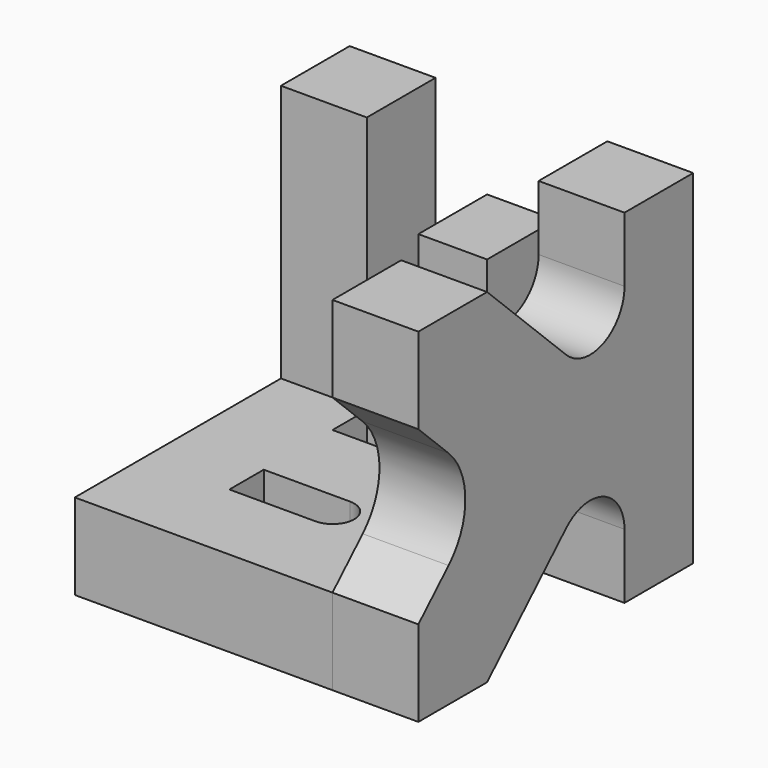
from build123d import *

# Parameters (mm, degrees)
F5_DEPTH = 6.35
F6_DEPTH = 6.35
F7_DEPTH = 6.35
F8_R     = 5.08


with BuildPart() as f5:
    # F2 (on Top) → F5 (new body)
    with BuildSketch(Plane.XY):
        with BuildLine():
            Line((0, 25.4), (0, 0))
            Line((0, 0), (19.05, 0))
            Line((19.05, 0), (19.05, 6.35))
            ThreePointArc((19.05, 6.35), (17.190128, 10.840128), (12.7, 12.7))
            ThreePointArc((12.7, 12.7), (17.190128, 14.559872), (19.05, 19.05))
            Line((19.05, 19.05), (19.05, 25.4))
            Line((19.05, 25.4), (0, 25.4))
        make_face()
        with BuildLine():
            Line((6.35, 6.35), (6.35, 9.525))
            Line((6.35, 9.525), (12.714883, 9.525))
            ThreePointArc((12.714883, 9.525), (14.3024, 7.930024), (12.7, 6.35))
            Line((12.7, 6.35), (6.35, 6.35))
        make_face(mode=Mode.SUBTRACT)
        with BuildLine():
            Line((6.35, 15.875), (6.35, 19.05))
            Line((6.35, 19.05), (12.7, 19.05))
            ThreePointArc((12.7, 19.05), (14.3024, 17.469976), (12.714883, 15.875))
            Line((12.714883, 15.875), (6.35, 15.875))
        make_face(mode=Mode.SUBTRACT)
    extrude(amount=F5_DEPTH)

    # F4 (on offset) → F6 (join)
    with BuildSketch(Plane.YZ.offset(25.4)):
        with BuildLine():
            Line((19.050006, -0.00045), (25.400006, -0.00045))
            Line((25.400006, -0.00045), (25.400006, 25.39955))
            Line((25.400006, 25.39955), (19.050006, 25.39955))
            Line((19.050006, 25.39955), (19.050006, 20.614292))
            ThreePointArc((19.050006, 20.614292), (17.11549, 17.691652), (13.669329, 18.330519))
            Line((13.669329, 18.330519), (6.350006, 25.39955))
            Line((6.350006, 25.39955), (6e-06, 25.39955))
            Line((6e-06, 25.39955), (6e-06, 19.04955))
            Line((6e-06, 19.04955), (6.57484, 12.69955))
            Line((6.57484, 12.69955), (6e-06, 6.34955))
            Line((6e-06, 6.34955), (6e-06, -0.00045))
            Line((6e-06, -0.00045), (6.350006, -0.00045))
            Line((6.350006, -0.00045), (13.669329, 7.068581))
            ThreePointArc((13.669329, 7.068581), (17.11549, 7.707448), (19.050006, 4.784809))
            Line((19.050006, 4.784809), (19.050006, -0.00045))
        make_face()
    extrude(amount=-F6_DEPTH)

    # F3 (on offset) → F7 (join)
    with BuildSketch(Plane.XZ.offset(-25.4)):
        Polygon((6.35, 25.4), (0, 25.4), (0, 0), (25.4, 0), (25.4, 25.4), (19.05, 25.4), (19.05, 6.35), (15.24, 6.35), (15.24, 19.05), (10.16, 19.05), (10.16, 6.35), (6.35, 6.35), align=None)
    extrude(amount=F7_DEPTH)

    # F8
    f8_edges = [f5.edges().sort_by_distance(p)[0] for p in [
        (22.225, 6.57484, 12.69955),
    ]]
    fillet(f8_edges, radius=F8_R)


solid = f5.part
